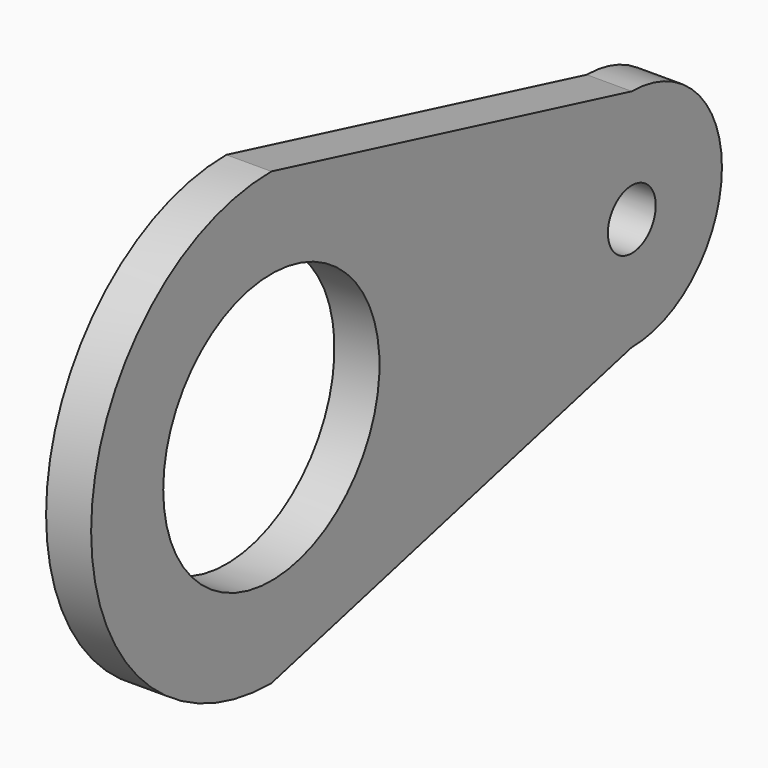
from build123d import *

# Parameters (mm, degrees)
F1_DEPTH = 6.35
F3_D     = 38.1
F3_DEPTH = 6.35
F3_TIP   = 11.4463947925
F4_D     = 8.4328


with BuildPart() as f1:
    # F0 (on Right) → F1 (new body)
    with BuildSketch(Plane.YZ):
        with BuildLine():
            Line((63.5, 15.875), (0, 31.75))
            ThreePointArc((0, 31.75), (-31.75, 0), (0, -31.75))
            Line((0, -31.75), (63.5, -15.875))
            ThreePointArc((63.5, -15.875), (79.375, 0), (63.5, 15.875))
        make_face()
    extrude(amount=F1_DEPTH)

    # F3
    with Locations(Plane.YZ.offset(6.35)):
        with Locations((0, 0)):
            Hole(F3_D / 2, depth=F3_DEPTH)
            with Locations((0, 0, -(F3_DEPTH + F3_TIP / 2))):  # 118° drill point
                Cone(0, F3_D / 2, F3_TIP, mode=Mode.SUBTRACT)

    # F4 (through all)
    with Locations(Plane.YZ.offset(6.35)):
        with Locations((63.5, 0)):
            Hole(F4_D / 2)


solid = f1.part
